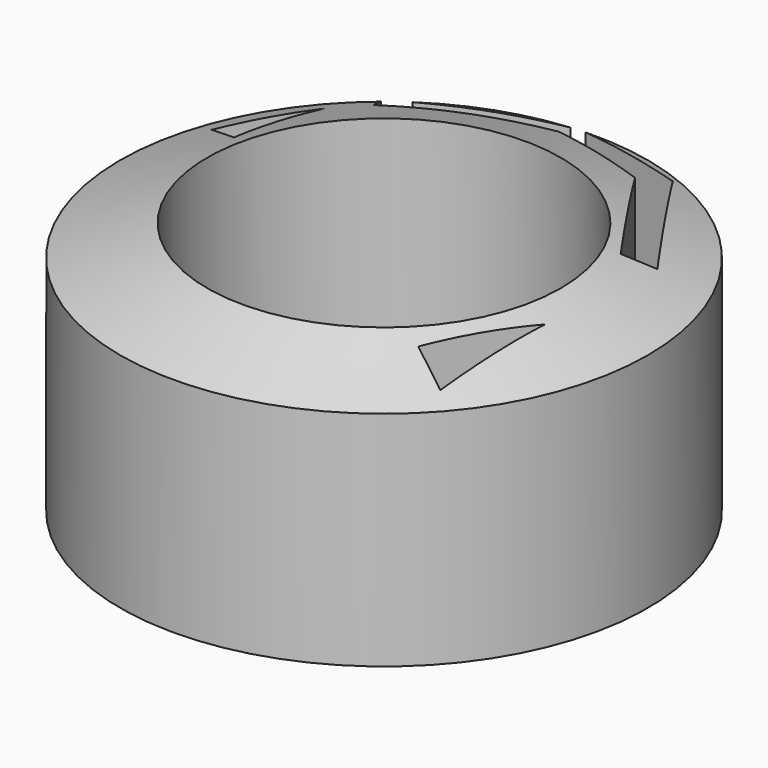
from build123d import *

# Parameters (mm, degrees)
F2_R     = 33.5
F3_DEPTH = 60.3
F5_DEPTH = 185.2
F7_DEPTH = 513.9


with BuildPart() as f1:
    # F0 (on Front) → F1 (revolve)
    with BuildSketch(Plane.XZ):
        Polygon((0, 59.732436), (0, 0), (50, 0), (50, 42.15404), align=None)
    revolve(axis=Axis((0, 0, 30.367568), (0, 0, -1)))

    # F2 (on Top) → F3 (cut)
    with BuildSketch(Plane.XY):
        Circle(F2_R)
    extrude(amount=F3_DEPTH, mode=Mode.SUBTRACT)

    # F4 (on Top) → F5 (cut)
    with BuildSketch(Plane.XY):
        Polygon((34.722967, -30.066082), (37.033275, -8.173317), (27.071127, -25.722313), align=None)
        Polygon((-36.049124, 9.528592), (-34.998236, 29.500964), (-43.828972, 13.945027), align=None)
    extrude(amount=F5_DEPTH, mode=Mode.SUBTRACT)

    # F6 (on Top) → F7 (cut)
    with BuildSketch(Plane.XY):
        Polygon((16.191127, 39.197367), (32.498192, 15.420348), (37.43574, 17.937383), (18.53629, 45.208145), (-3.14586, 50.290386), (-32.016785, 40.044539), (-30.41492, 35.530776), (-3.14586, 45.208145), align=None)
    extrude(amount=F7_DEPTH, mode=Mode.SUBTRACT)


solid = f1.part
